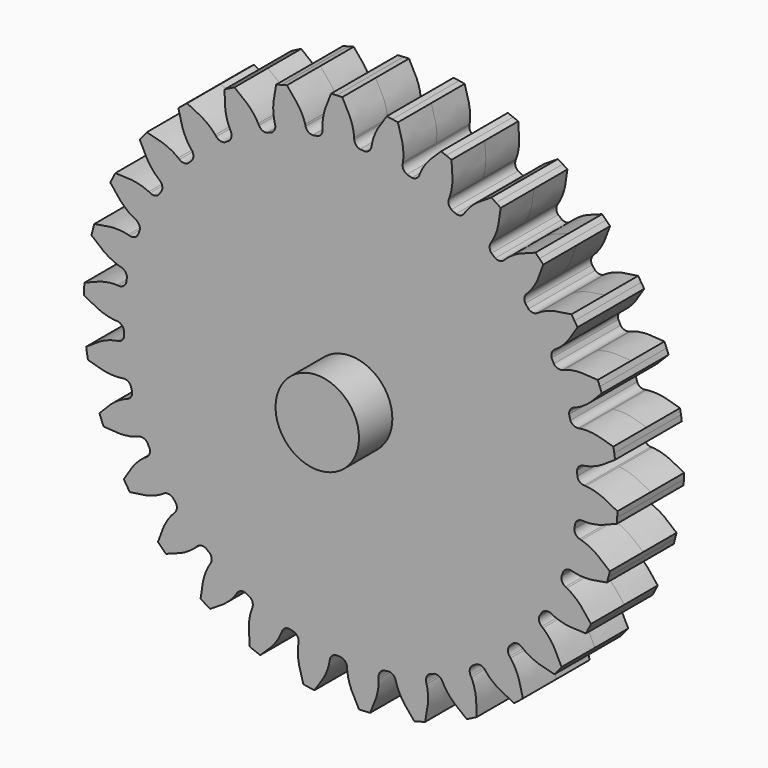
from build123d import *

# Parameters (mm, degrees)
F2_R     = 13.6
F3_DEPTH = 2.5
F5_DEPTH = 2.5
F6_COUNT = 30
F7_R     = 2.5
F8_DEPTH = 5


with BuildPart() as f3:
    # F2 (on Front) → F3 (new body, symmetric)
    with BuildSketch(Plane.XZ):
        Circle(F2_R)
    extrude(amount=F3_DEPTH, both=True)

    # F4 (on Front) → F5 (join, symmetric)
    with BuildSketch(Plane.XZ):
        with BuildLine():
            add(Edge.make_bspline(
                [(-0.5011575941, 15.9921493573), (-0.2963810657, 15.629236775), (0.054782857, 14.9663829887), (0.1847332927, 14.3823116252), (0.2030176805, 14.1741662808), (0.2100753151, 14.0938237612)],
                knots=[0.1690494678, 0.1690494678, 0.1690494678, 0.1690494678, 0.4994586019, 0.8067948279, 1, 1, 1, 1], degree=3))
            ThreePointArc((-0.5011575941, 15.9921493573), (-0.669303456, 15.9859948982), (-0.8373752999, 15.9780725561))
            ThreePointArc((-0.8373752999, 15.9780725561), (-1.0053545389, 15.9683832072), (-1.1732225963, 15.956927923))
            add(Edge.make_bspline(
                [(-1.1732225963, 15.956927923), (-1.3389426429, 15.5745984379), (-1.6188957652, 14.8786692088), (-1.6870822368, 14.2842139301), (-1.6835093479, 14.0752975887), (-1.6821302399, 13.9946574702)],
                knots=[0.1690494678, 0.1690494678, 0.1690494678, 0.1690494678, 0.4994586019, 0.8067948279, 1, 1, 1, 1], degree=3))
            Line((-1.6821302399, 13.9946574702), (-1.6771265566, 13.8991815051))
            ThreePointArc((-1.6771265566, 13.8991815051), (-1.7537614198, 13.625884297), (-1.9804205722, 13.4550337925))
            ThreePointArc((-1.9804205722, 13.4550337925), (-1.3475759211, 13.533072051), (-0.7117690049, 13.5813616727))
            ThreePointArc((-0.7117690049, 13.5813616727), (-0.0743974656, 13.5997965065), (0.5631376156, 13.5883360286))
            ThreePointArc((0.5631376156, 13.5883360286), (0.3198613851, 13.7345582633), (0.2150789984, 13.9983477962))
            Line((0.2150789984, 13.9983477962), (0.2100753151, 14.0938237612))
        make_face()
    extrude(amount=F5_DEPTH, both=True)

    # F6: F3 ×30 about axis
    f6_axis = Axis((0, -2.5, 0), (0, 1, 0))


with BuildPart() as f3_1:
    add(f3.part)
    for i in range(1, F6_COUNT):
        add(f3.part.rotate(f6_axis, i * 360 / F6_COUNT))

    # F7 (on Front) → F8 (join, symmetric)
    with BuildSketch(Plane.XZ):
        Circle(F7_R)
    extrude(amount=F8_DEPTH, both=True)


solid = f3_1.part
